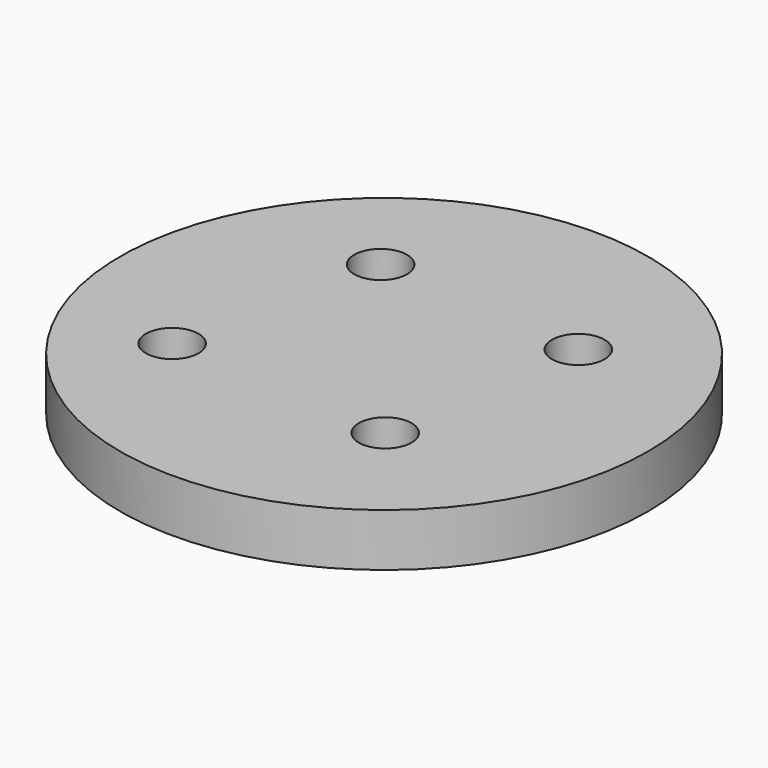
from build123d import *

# Parameters (mm, degrees)
F0_R     = 63.5
F0_R_2   = 6.35
F1_DEPTH = 12.7


with BuildPart() as f1:
    # F0 (on Top) → F1 (new body)
    with BuildSketch(Plane.XY):
        with Locations((-80.543637, 13.405417)):
            Circle(F0_R)
        with Locations((-114.289023, -8.129465)):
            Circle(F0_R_2, mode=Mode.SUBTRACT)
        with Locations((-60.322791, -11.530095)):
            Circle(F0_R_2, mode=Mode.SUBTRACT)
        with Locations((-103.7957, 41.429423)):
            Circle(F0_R_2, mode=Mode.SUBTRACT)
        with Locations((-53.20075, 37.625528)):
            Circle(F0_R_2, mode=Mode.SUBTRACT)
    extrude(amount=F1_DEPTH)


solid = f1.part
